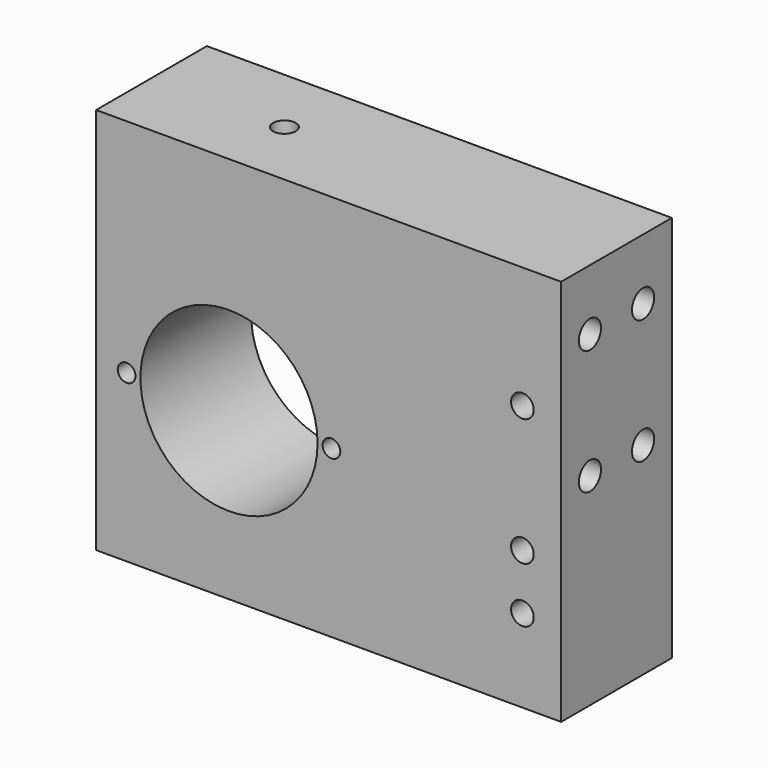
from build123d import *

# Parameters (mm, degrees)
F0_W      = 84
F0_H      = 70
F0_R      = 16
F1_DEPTH  = 25
F3_D      = 3.2
F3_DEPTH  = 8
F3_TIP    = 0.9613769904
F5_D      = 4.1
F5_DEPTH  = 20
F5_TIP    = 1.231764269
F7_D      = 4.1
F7_DEPTH  = 20
F7_TIP    = 1.231764269
F9_D      = 5
F9_DEPTH  = 20
F9_TIP    = 1.5021515476
F11_D     = 5
F11_DEPTH = 12
F11_TIP   = 1.5021515476
F13_D     = 3.2
F13_DEPTH = 8
F13_TIP   = 0.9613769904


with BuildPart() as f1:
    # F0 (on Front) → F1 (new body)
    with BuildSketch(Plane.XZ):
        Rectangle(F0_W, F0_H)
        with Locations((-18, -5)):
            Circle(F0_R, mode=Mode.SUBTRACT)
    extrude(amount=F1_DEPTH)

    # F3
    with Locations(Plane.XZ.offset(25)):
        with Locations((-36.5, -5), (0.5, -5)):
            Hole(F3_D / 2, depth=F3_DEPTH)
            with Locations((0, 0, -(F3_DEPTH + F3_TIP / 2))):  # 118° drill point
                Cone(0, F3_D / 2, F3_TIP, mode=Mode.SUBTRACT)

    # F5
    with Locations(Plane.XZ.offset(25)):
        with Locations((35, 13), (35, -10), (35, -20)):
            Hole(F5_D / 2, depth=F5_DEPTH)
            with Locations((0, 0, -(F5_DEPTH + F5_TIP / 2))):  # 118° drill point
                Cone(0, F5_D / 2, F5_TIP, mode=Mode.SUBTRACT)

    # F7
    with Locations(Plane.XY.offset(35)):
        with Locations((-18, -12.5)):
            Hole(F7_D / 2, depth=F7_DEPTH)
            with Locations((0, 0, -(F7_DEPTH + F7_TIP / 2))):  # 118° drill point
                Cone(0, F7_D / 2, F7_TIP, mode=Mode.SUBTRACT)

    # F9
    with Locations(Plane.YZ.offset(42)):
        with Locations((-18.5, 24), (-6.5, 24)):
            Hole(F9_D / 2, depth=F9_DEPTH)
            with Locations((0, 0, -(F9_DEPTH + F9_TIP / 2))):  # 118° drill point
                Cone(0, F9_D / 2, F9_TIP, mode=Mode.SUBTRACT)

    # F11
    with Locations(Plane.YZ.offset(42)):
        with Locations((-18.5, 1.5), (-6.5, 1.5)):
            Hole(F11_D / 2, depth=F11_DEPTH)
            with Locations((0, 0, -(F11_DEPTH + F11_TIP / 2))):  # 118° drill point
                Cone(0, F11_D / 2, F11_TIP, mode=Mode.SUBTRACT)

    # F13
    with Locations(Plane(origin=(0, 0, 0), x_dir=(-1, 0, 0), z_dir=(0, 1, 0))):
        with Locations((-0.5, -5), (36.5, -5)):
            Hole(F13_D / 2, depth=F13_DEPTH)
            with Locations((0, 0, -(F13_DEPTH + F13_TIP / 2))):  # 118° drill point
                Cone(0, F13_D / 2, F13_TIP, mode=Mode.SUBTRACT)


solid = f1.part
